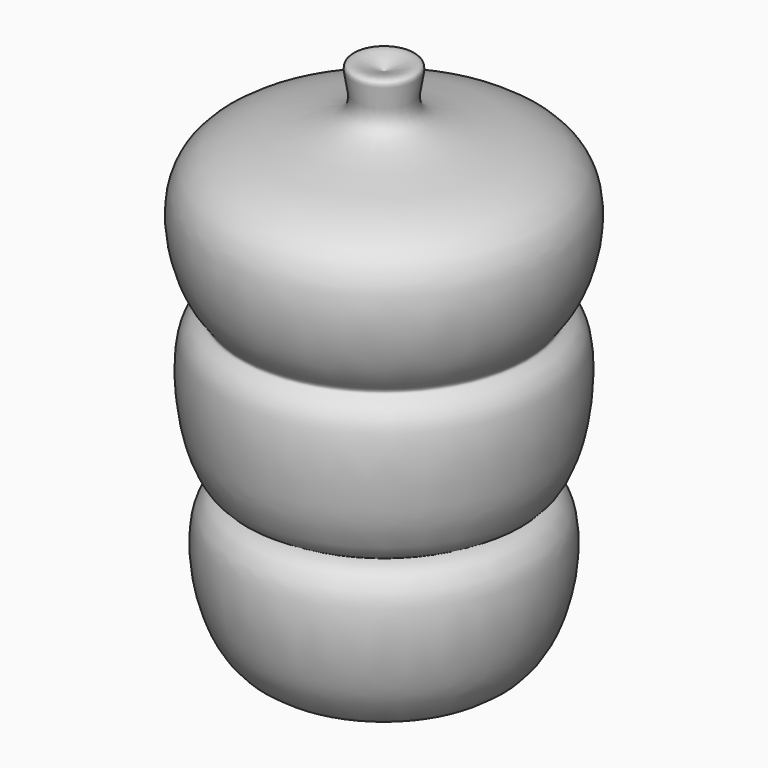
from build123d import *


with BuildPart() as f1:
    # F0 (on Front) → F1 (revolve)
    with BuildSketch(Plane.XZ):
        with BuildLine():
            add(Edge.make_bspline(
                [(0, -31.1435293406), (-7.6173608598, -33.5129877426), (-23.2179743629, -38.3657189471), (-27.2321157525, -7.8231812103), (-17.369224732, -7.861366993), (-25.9419045011, -7.7103603522), (-28.559721058, 16.1293109294), (-21.9562508316, 17.336887393), (-26.8194090166, 20.7917634544), (-32.2222264181, 44.5006393797), (-0.4605886012, 42.2338962578), (-7.2059328011, 54.6957446921), (-2.3167209029, 52.802832878), (0, 51.9058890641)],
                knots=[0, 0, 0, 0, 0.1263458556, 0.2587605992, 0.3165974971, 0.3717143669, 0.5026640642, 0.5563480955, 0.6129537224, 0.7323901254, 0.8643428632, 0.9357197579, 1, 1, 1, 1], degree=3))
            Line((0, -31.1435293406), (0, 51.9058890641))
        make_face()
    revolve(axis=Axis((0, 0, 10.3811798617), (0, 0, -1)))


solid = f1.part
